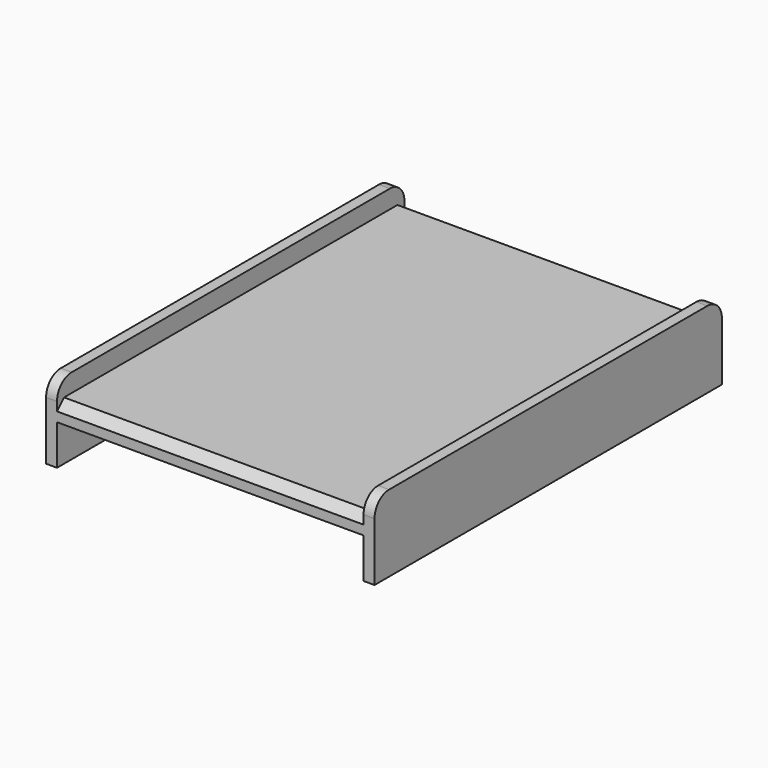
from build123d import *

# Parameters (mm, degrees)
F0_W     = 266.7
F0_H     = 15.875
F1_DEPTH = 188.9125
F2_R     = 15.875
F3_SIZE  = 7.62


with BuildPart() as f1:
    # F0 (on Front) → F1 (new body, symmetric)
    with BuildSketch(Plane.XZ):
        Rectangle(F0_W, F0_H)
        Polygon((133.35, 23.8125), (133.35, 7.9375), (133.35, -7.9375), (133.35, -42.8625), (142.875, -42.8625), (142.875, 23.8125), align=None)
        Polygon((-133.35, -7.9375), (-133.35, 7.9375), (-133.35, 23.8125), (-142.875, 23.8125), (-142.875, -42.8625), (-133.35, -42.8625), align=None)
    extrude(amount=F1_DEPTH, both=True)

    # F2
    f2_edges = [f1.edges().sort_by_distance(p)[0] for p in [
        (-138.1125, -188.9125, 23.8125),
        (-138.1125, 188.9125, 23.8125),
        (138.1125, 188.9125, 23.8125),
        (138.1125, -188.9125, 23.8125),
    ]]
    fillet(f2_edges, radius=F2_R)

    # F3
    f3_edges = [f1.edges().sort_by_distance(p)[0] for p in [
        (0, -188.9125, 7.9375),
        (0, 188.9125, 7.9375),
    ]]
    chamfer(f3_edges, length=F3_SIZE)


solid = f1.part
